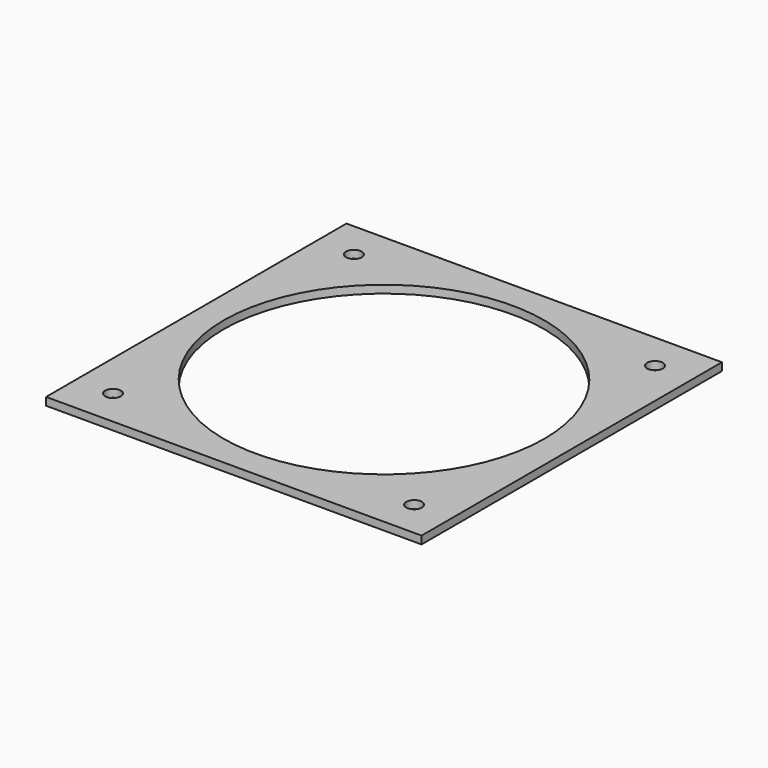
from build123d import *

# Parameters (mm, degrees)
F0_W     = 152.4
F0_H     = 152.4
F0_R     = 65.0875
F1_DEPTH = 3.175
F3_D     = 6.35


with BuildPart() as f1:
    # F0 (on Top) → F1 (new body)
    with BuildSketch(Plane.XY):
        Rectangle(F0_W, F0_H)
        Circle(F0_R, mode=Mode.SUBTRACT)
        Rectangle(F0_W, F0_H)
        Circle(F0_R, mode=Mode.SUBTRACT)
    extrude(amount=F1_DEPTH)

    # F3 (through all)
    with Locations(Plane.XY.offset(3.175)):
        with Locations((-61.11317, -61.11317), (61.11317, -61.11317), (61.11317, 61.11317), (-61.11317, 61.11317)):
            Hole(F3_D / 2)


solid = f1.part
